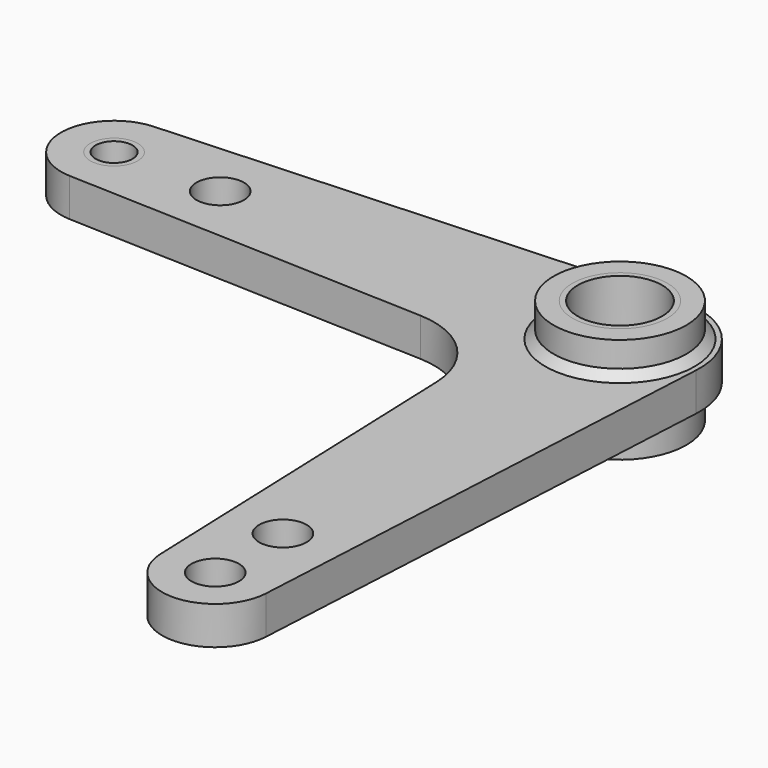
from build123d import *

# Parameters (mm, degrees)
F0_R     = 14.295
F0_R_2   = 40
F1_DEPTH = 11.5
F0_R_3   = 28.59
F2_DEPTH = 31.8
F3_SIZE  = 5
F0_R_4   = 11.1125
F4_DEPTH = 11.5
F0_R_5   = 25.4
F5_DEPTH = 31.8


with BuildPart() as f1:
    # F0 (on Top) → F1 (new body, symmetric)
    with BuildSketch(Plane.XY):
        with BuildLine():
            Line((-40.034096, -88.153808), (-31.978179, -306.181563))
            ThreePointArc((-31.978179, -306.181563), (-0.248811, -336.999033), (31.955938, -306.678689))
            Line((31.955938, -306.678689), (47.933908, -2.518033))
            ThreePointArc((47.933908, -2.518033), (33.941125, 33.941125), (-2.518033, 47.933908))
            Line((-2.518033, 47.933908), (-306.678689, 31.955938))
            ThreePointArc((-306.678689, 31.955938), (-336.999033, -0.248811), (-306.181563, -31.978179))
            Line((-306.181563, -31.978179), (-88.153808, -40.034096))
            ThreePointArc((-88.153808, -40.034096), (-54.644661, -54.644661), (-40.034096, -88.153808))
        make_face()
        with Locations((0, -305)):
            Circle(F0_R, mode=Mode.SUBTRACT)
        with Locations((0, -254)):
            Circle(F0_R, mode=Mode.SUBTRACT)
        with Locations((-305, 0)):
            Circle(F0_R, mode=Mode.SUBTRACT)
        with Locations((-241, 0)):
            Circle(F0_R, mode=Mode.SUBTRACT)
        Circle(F0_R_2, mode=Mode.SUBTRACT)
    extrude(amount=F1_DEPTH, both=True)

    # F0 (on Top) → F2 (join, symmetric)
    with BuildSketch(Plane.XY):
        Circle(F0_R_2)
        Circle(F0_R_3, mode=Mode.SUBTRACT)
    extrude(amount=F2_DEPTH, both=True)

    # F3
    f3_edges = [f1.edges().sort_by_distance(p)[0] for p in [
        (-40, 0, -11.5),
        (-40, 0, 11.5),
    ]]
    chamfer(f3_edges, length=F3_SIZE)


with BuildPart() as f4:
    # F0 (on Top) → F4 (new body, symmetric)
    with BuildSketch(Plane.XY):
        with Locations((-305, 0)):
            Circle(F0_R)
        with Locations((-305, 0)):
            Circle(F0_R_4, mode=Mode.SUBTRACT)
    extrude(amount=F4_DEPTH, both=True)


with BuildPart() as f5:
    # F0 (on Top) → F5 (new body, symmetric)
    with BuildSketch(Plane.XY):
        Circle(F0_R_3)
        Circle(F0_R_5, mode=Mode.SUBTRACT)
    extrude(amount=F5_DEPTH, both=True)


solid = Compound([f1.part, f4.part, f5.part])
